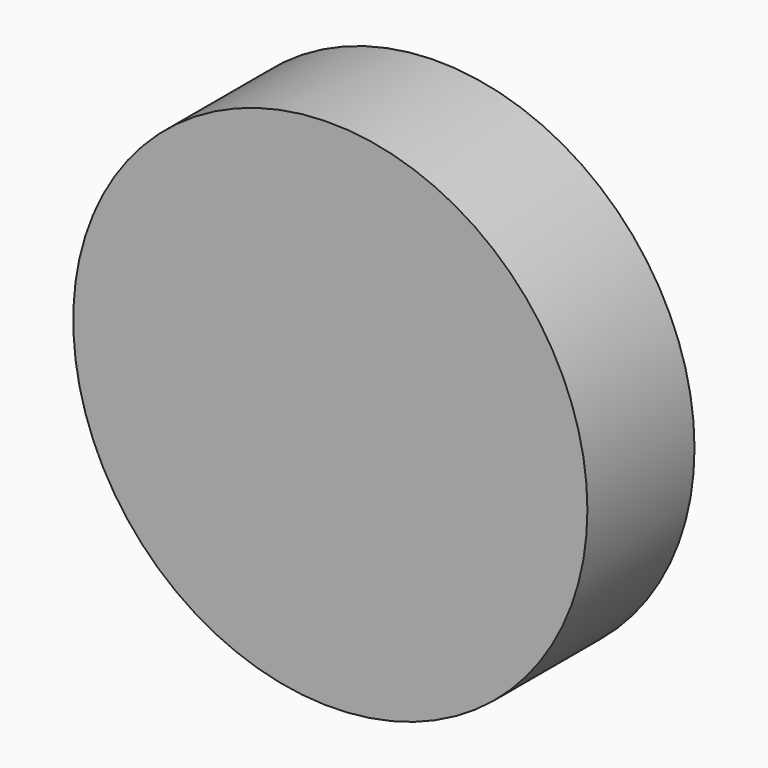
from build123d import *

# Parameters (mm, degrees)
F1_R     = 48.856232
F2_DEPTH = 25.441911


with BuildPart() as f2:
    # F1 (on face) → F2 (new body)
    with BuildSketch(Plane.XZ):
        Circle(F1_R)
    extrude(amount=F2_DEPTH)


solid = f2.part
